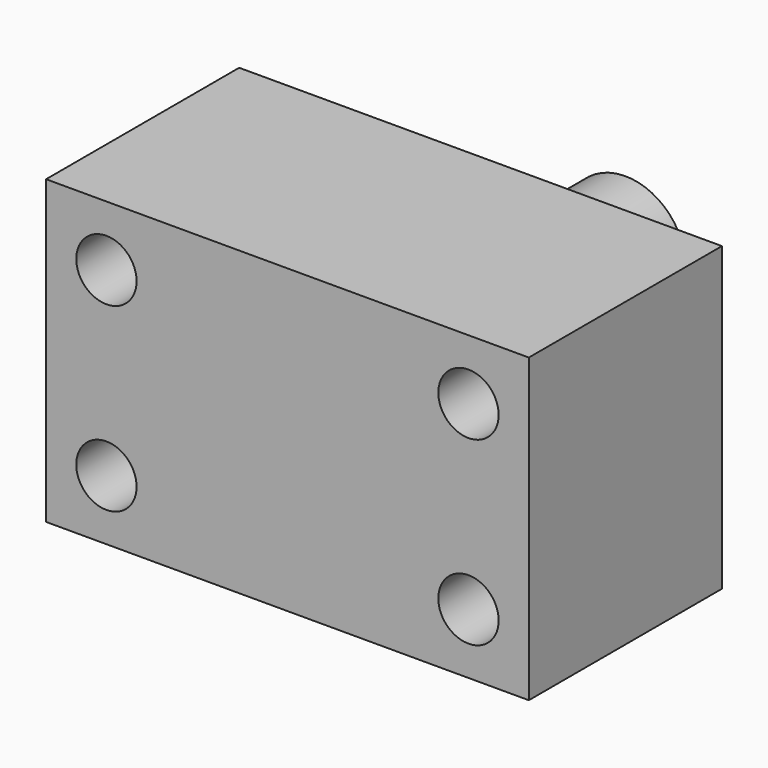
from build123d import *

# Parameters (mm, degrees)
F0_W     = 101.6
F0_H     = 63.5
F1_DEPTH = 50.8
F2_R     = 6.35
F3_DEPTH = 50.801
F4_W     = 12.7
F4_H     = 38.1
F6_W     = 12.7
F6_H     = 5.855737


with BuildPart() as f1:
    # F0 (on Front) → F1 (new body)
    with BuildSketch(Plane.XZ):
        Rectangle(F0_W, F0_H)
    extrude(amount=-F1_DEPTH)

    # F2 (on face) → F3 (cut, through all)
    with BuildSketch(Plane.XZ):
        with Locations((38.1, -19.05)):
            Circle(F2_R)
        with Locations((38.1, 19.05)):
            Circle(F2_R)
        with Locations((-38.1, 19.05)):
            Circle(F2_R)
        with Locations((-38.1, -19.05)):
            Circle(F2_R)
    extrude(amount=-F3_DEPTH, mode=Mode.SUBTRACT)

    # F4 (on Top) → F5 (revolve)
    with BuildSketch(Plane.XY):
        with Locations((6.35, 69.85)):
            Rectangle(F4_W, F4_H)
    revolve(axis=Axis((0, 69.85, 0), (0, 1, 0)))

    # F6 (on Top) → F7 (revolve, cut)
    with BuildSketch(Plane.XY):
        with Locations((-14.233844, 60.077868)):
            Rectangle(F6_W, F6_H)
    revolve(axis=Axis((0, 88.9, 0), (0, 1, 0)), mode=Mode.SUBTRACT)


solid = f1.part
